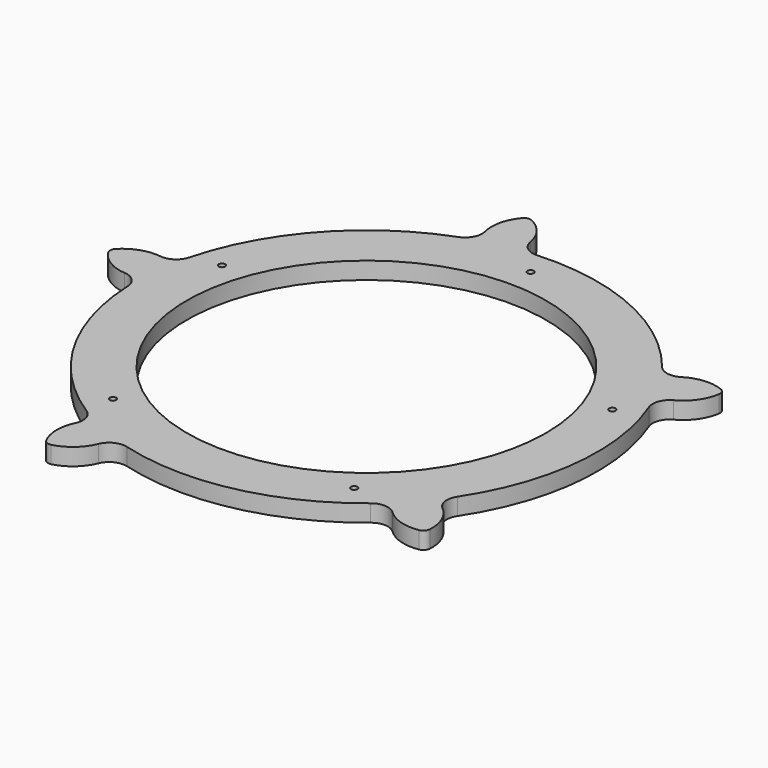
from build123d import *

# Parameters (mm, degrees)
F0_R     = 85.725
F0_R_2   = 1.1938
F0_R_3   = 66.675
F1_DEPTH = 6.35
F3_DEPTH = 6.35
F4_R     = 6.35
F5_R     = 2.54


with BuildPart() as f1:
    # F0 (on Top) → F1 (new body)
    with BuildSketch(Plane.XY):
        Circle(F0_R)
        with Locations((-44.7892362247, -61.6470949714)):
            Circle(F0_R_2, mode=Mode.SUBTRACT)
        with Locations((44.7892362247, -61.6470949714)):
            Circle(F0_R_2, mode=Mode.SUBTRACT)
        with Locations((-72.4705065417, 23.5470949714)):
            Circle(F0_R_2, mode=Mode.SUBTRACT)
        Circle(F0_R_3, mode=Mode.SUBTRACT)
        with Locations((72.4705065417, 23.5470949714)):
            Circle(F0_R_2, mode=Mode.SUBTRACT)
        with Locations((0, 76.2)):
            Circle(F0_R_2, mode=Mode.SUBTRACT)
    extrude(amount=F1_DEPTH)

    # F2 (on face) → F3 (join, through all)
    with BuildSketch(Plane.XY.offset(6.35)):
        with BuildLine():
            ThreePointArc((-11.8747578307, 84.8985615394), (-13.5000872261, 95.5678395166), (-21.7839474054, 102.4854148669))
            ThreePointArc((-21.7839474054, 102.4854148669), (-26.5379988678, 92.7965458467), (-23.6832248457, 82.3885943921))
            ThreePointArc((-23.6832248457, 82.3885943921), (-17.8232296954, 83.8517030729), (-11.8747578307, 84.8985615394))
        make_face()
        with BuildLine():
            ThreePointArc((-104.2010315872, 10.9519697389), (-96.455452264, 3.4365729333), (-85.6747285239, 2.9353904935))
            ThreePointArc((-85.6747285239, 2.9353904935), (-85.2553894804, 8.9607025136), (-84.4128321499, 14.9415324994))
            ThreePointArc((-84.4128321499, 14.9415324994), (-95.0621728989, 16.6927405994), (-104.2010315872, 10.9519697389))
        make_face()
        with BuildLine():
            ThreePointArc((-42.6158317783, -95.7167253245), (-33.0747490316, -90.6726269691), (-29.266669359, -80.5744232969))
            ThreePointArc((-29.266669359, -80.5744232969), (-34.8674987277, -78.3136843564), (-40.2952415246, -75.6641866108))
            ThreePointArc((-40.2952415246, -75.6641866108), (-45.2515666698, -85.2511584608), (-42.6158317783, -95.7167253245))
        make_face()
        with BuildLine():
            ThreePointArc((77.8629990894, -70.1081592812), (76.0141331931, -59.4753382494), (67.5869321226, -52.7331227149))
            ThreePointArc((67.5869321226, -52.7331227149), (63.706090164, -57.3612212301), (59.5090033028, -61.704571556))
            ThreePointArc((59.5090033028, -61.704571556), (67.0951666528, -69.3808541084), (77.8629990894, -70.1081592812))
        make_face()
        with BuildLine():
            ThreePointArc((90.7378116815, 52.3875), (80.0540669703, 53.9148464385), (71.0376906061, 47.9835611262))
            ThreePointArc((71.0376906061, 47.9835611262), (74.2400277394, 42.8625), (77.0738282024, 37.528664128))
            ThreePointArc((77.0738282024, 37.528664128), (86.7186601421, 42.3714324533), (90.7378116815, 52.3875))
        make_face()
    extrude(amount=-F3_DEPTH)

    # F4
    f4_edges = [f1.edges().sort_by_distance(p)[0] for p in [
        (-11.874758, 84.898562, 3.175),
        (-23.683225, 82.388594, 3.175),
        (71.037691, 47.983561, 3.175),
        (77.073828, 37.528664, 3.175),
        (67.586932, -52.733123, 3.175),
        (59.509003, -61.704572, 3.175),
        (-29.266669, -80.574423, 3.175),
        (-40.295242, -75.664187, 3.175),
        (-85.674729, 2.93539, 3.175),
        (-84.412832, 14.941532, 3.175),
    ]]
    fillet(f4_edges, radius=F4_R)

    # F5
    f5_edges = [f1.edges().sort_by_distance(p)[0] for p in [
        (77.862999, -70.108159, 3.175),
        (-42.615832, -95.716725, 3.175),
        (-104.201032, 10.95197, 3.175),
        (-21.783947, 102.485415, 3.175),
        (90.737812, 52.3875, 3.175),
    ]]
    fillet(f5_edges, radius=F5_R)


solid = f1.part
